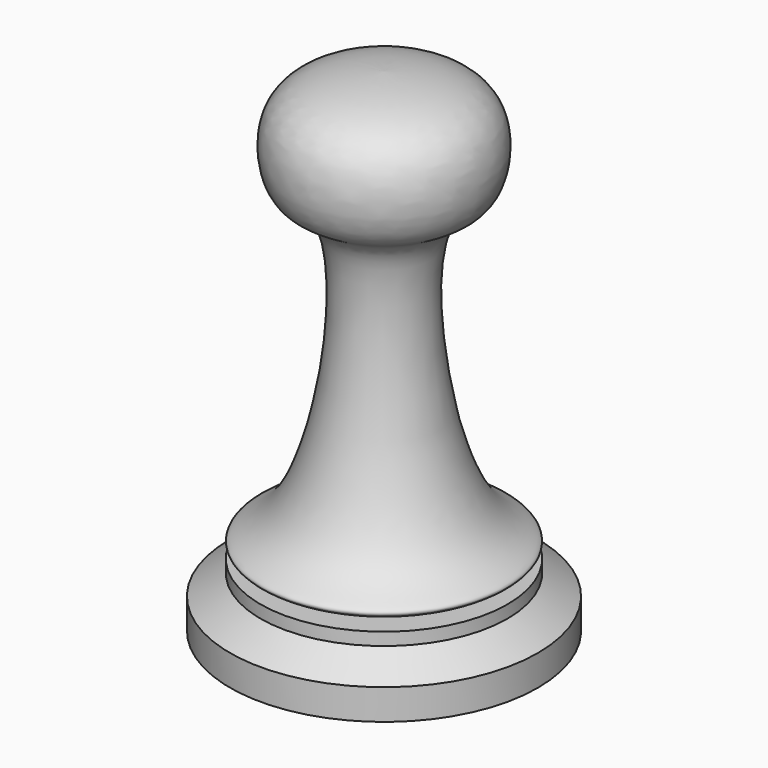
from build123d import *


with BuildPart() as f1:
    # F0 (on Front) → F1 (revolve)
    with BuildSketch(Plane.XZ):
        with BuildLine():
            Line((-63.5, -101.5641741939), (0, -101.5641741939))
            Line((0, -101.5641741939), (0, 101.6358258061))
            add(Edge.make_bspline(
                [(-38.1393936889, -75.3212645162), (-44.4384714629, -72.9996156857), (-58.0551989156, -68.28184516), (-24.5484081328, -61.3338010836), (-10.4596426082, 53.7534640266), (-39.5851991099, 53.0419539424), (-44.7772190867, 94.4537292927), (-18.293186073, 100.988194798), (0, 101.6358258061)],
                knots=[0, 0, 0, 0, 0.1096556949, 0.2382961919, 0.5322345539, 0.6582664063, 0.814238852, 1, 1, 1, 1], degree=3))
            Line((-38.1393936889, -75.3212645162), (-50.9780906141, -75.3212645162))
            Line((-50.9780906141, -75.3212645162), (-50.9780906141, -80.5289968848))
            Line((-50.9780906141, -80.5289968848), (-63.5, -88.9397338033))
            Line((-63.5, -88.9397338033), (-63.5, -101.5641741939))
        make_face()
    revolve(axis=Axis((0, 0, -3.2299980521), (0, 0, 1)))


solid = f1.part
